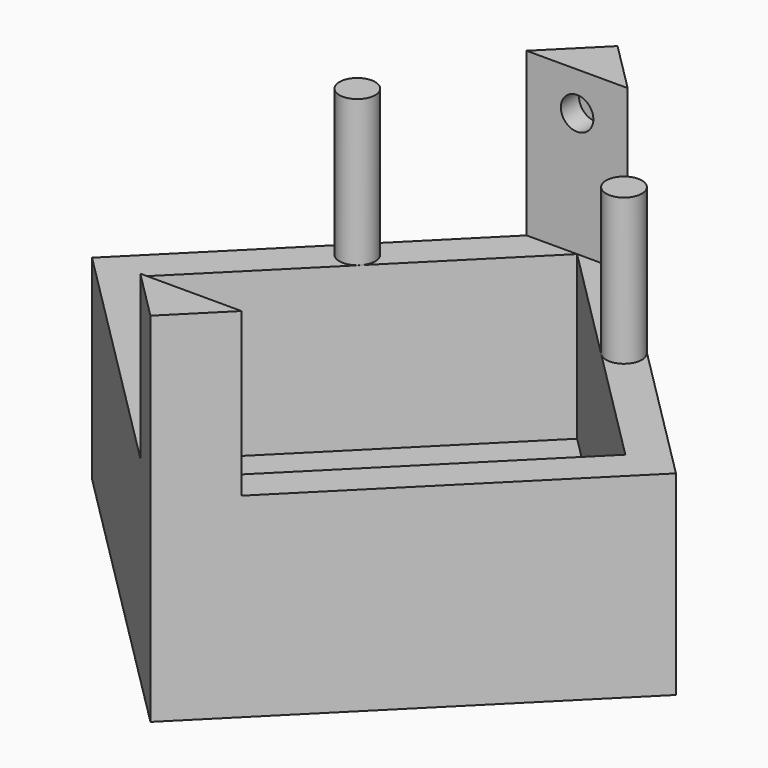
from build123d import *

# Parameters (mm, degrees)
PAD_DEPTH            = 22
POCKET_DEPTH         = 20
POCKET001_DEPTH      = 10
SKETCH003_R          = 1
POCKET002_DEPTH      = 16.25
POCKET002_DEPTH_BACK = -16.25
SKETCH004_R          = 1.1
PAD001_DEPTH         = 9
SKETCH005_R          = 1
POCKET003_DEPTH      = 5


with BuildPart() as part:
    # Sketch → Pad (new body)
    with BuildSketch(Plane.XY):
        Polygon((0, -17.960512), (17.960512, 0), (0, 17.960512), (-17.960512, 0), align=None)
    extrude(amount=PAD_DEPTH)

    # Sketch001 (on Face6 of Pad) → Pocket (cut)
    with BuildSketch(Plane.XY.offset(22)):
        Polygon((0, 14.849242), (-14.849242, 0), (0, -14.849242), (14.849242, 0), align=None)
    extrude(amount=-POCKET_DEPTH, mode=Mode.SUBTRACT)

    # Sketch002 (on Face5 of Pocket) → Pocket001 (cut)
    with BuildSketch(Plane.XY.offset(22)):
        Polygon((-3.11127, 14.849242), (-17.960512, 0), (-3.11127, -14.849242), (0, -14.849242), (-14.849242, 0), (0, 14.849242), align=None)
    pocket001 = extrude(amount=-POCKET001_DEPTH, mode=Mode.SUBTRACT)

    # Mirrored: Pocket001 across YZ
    add(pocket001.mirror(Plane.YZ), mode=Mode.SUBTRACT)

    # Sketch003 → Pocket002 (cut, two sides)
    with BuildSketch(Plane.XZ) as pocket002_sk:
        with Locations((0, 19.622342)):
            Circle(SKETCH003_R)
    extrude(amount=-POCKET002_DEPTH, mode=Mode.SUBTRACT)
    extrude(pocket002_sk.sketch, amount=-POCKET002_DEPTH_BACK, mode=Mode.SUBTRACT)

    # Sketch004 (on Face15 of Pocket002) → Pad001 (join)
    with BuildSketch(Plane.XY.offset(12)):
        with Locations((8.202439, 8.202439)):
            Circle(SKETCH004_R)
    pad001 = extrude(amount=PAD001_DEPTH)

    # Mirrored001: Pad001 across YZ
    add(pad001.mirror(Plane.YZ))

    # Sketch005 (on Face21 of Mirrored001) → Pocket003 (cut)
    with BuildSketch(Plane.XY.offset(2)):
        with Locations((-11, 0)):
            Circle(SKETCH005_R)
        with Locations((11, 0)):
            Circle(SKETCH005_R)
    extrude(amount=-POCKET003_DEPTH, mode=Mode.SUBTRACT)


solid = part.part
